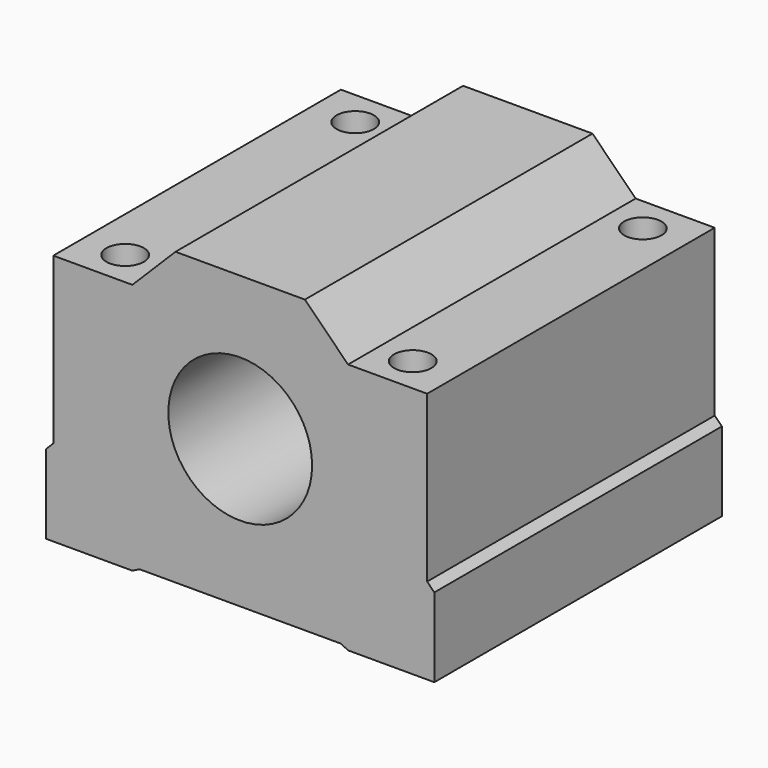
from build123d import *

# Parameters (mm, degrees)
F0_R      = 10
F1_DEPTH  = 50
F5_D      = 6.48
F5_DEPTH  = 12
F5_TIP    = 1.9467884056
F6_D      = 6.48
F6_DEPTH  = 12
F6_TIP    = 1.9467884056
F7_D      = 6.48
F7_DEPTH  = 12
F7_TIP    = 1.9467884056
F8_D      = 6.48
F8_DEPTH  = 12
F8_TIP    = 1.9467884056
F9_D      = 5.2
F9_DEPTH  = 23
F9_TIP    = 1.5622376095
F10_D     = 5.2
F10_DEPTH = 23
F10_TIP   = 1.5622376095
F11_D     = 5.2
F11_DEPTH = 23
F11_TIP   = 1.5622376095
F12_D     = 5.2
F12_DEPTH = 23
F12_TIP   = 1.5622376095


with BuildPart() as f1:
    # F0 (on Front) → F1 (new body)
    with BuildSketch(Plane.XZ):
        Polygon((15, -20.5), (27, -20.5), (27, -9.5), (26, -8.5), (26, 14.5), (15, 14.5), (9, 20.5), (-9, 20.5), (-15, 14.5), (-26, 14.5), (-26, -8.5), (-27, -9.5), (-27, -20.5), (-15, -20.5), (-14, -20), (14, -20), align=None)
        with Locations((0, 0.5)):
            Circle(F0_R, mode=Mode.SUBTRACT)
    extrude(amount=F1_DEPTH)

    # F5
    with Locations(Plane(origin=(0, 0, -20.5), x_dir=(1, 0, 0), z_dir=(0, 0, -1))):
        with Locations((20, 45)):
            Hole(F5_D / 2, depth=F5_DEPTH)
            with Locations((0, 0, -(F5_DEPTH + F5_TIP / 2))):  # 118° drill point
                Cone(0, F5_D / 2, F5_TIP, mode=Mode.SUBTRACT)

    # F6
    with Locations(Plane(origin=(0, 0, -20.5), x_dir=(1, 0, 0), z_dir=(0, 0, -1))):
        with Locations((-20, 45)):
            Hole(F6_D / 2, depth=F6_DEPTH)
            with Locations((0, 0, -(F6_DEPTH + F6_TIP / 2))):  # 118° drill point
                Cone(0, F6_D / 2, F6_TIP, mode=Mode.SUBTRACT)

    # F7
    with Locations(Plane(origin=(0, 0, -20.5), x_dir=(1, 0, 0), z_dir=(0, 0, -1))):
        with Locations((20, 5)):
            Hole(F7_D / 2, depth=F7_DEPTH)
            with Locations((0, 0, -(F7_DEPTH + F7_TIP / 2))):  # 118° drill point
                Cone(0, F7_D / 2, F7_TIP, mode=Mode.SUBTRACT)

    # F8
    with Locations(Plane(origin=(0, 0, -20.5), x_dir=(1, 0, 0), z_dir=(0, 0, -1))):
        with Locations((-20, 5)):
            Hole(F8_D / 2, depth=F8_DEPTH)
            with Locations((0, 0, -(F8_DEPTH + F8_TIP / 2))):  # 118° drill point
                Cone(0, F8_D / 2, F8_TIP, mode=Mode.SUBTRACT)

    # F9
    with Locations(Plane.XY.offset(14.5)):
        with Locations((20, -45)):
            Hole(F9_D / 2, depth=F9_DEPTH)
            with Locations((0, 0, -(F9_DEPTH + F9_TIP / 2))):  # 118° drill point
                Cone(0, F9_D / 2, F9_TIP, mode=Mode.SUBTRACT)

    # F10
    with Locations(Plane.XY.offset(14.5)):
        with Locations((-20, -45)):
            Hole(F10_D / 2, depth=F10_DEPTH)
            with Locations((0, 0, -(F10_DEPTH + F10_TIP / 2))):  # 118° drill point
                Cone(0, F10_D / 2, F10_TIP, mode=Mode.SUBTRACT)

    # F11
    with Locations(Plane.XY.offset(14.5)):
        with Locations((-20, -5)):
            Hole(F11_D / 2, depth=F11_DEPTH)
            with Locations((0, 0, -(F11_DEPTH + F11_TIP / 2))):  # 118° drill point
                Cone(0, F11_D / 2, F11_TIP, mode=Mode.SUBTRACT)

    # F12
    with Locations(Plane.XY.offset(14.5)):
        with Locations((20, -5)):
            Hole(F12_D / 2, depth=F12_DEPTH)
            with Locations((0, 0, -(F12_DEPTH + F12_TIP / 2))):  # 118° drill point
                Cone(0, F12_D / 2, F12_TIP, mode=Mode.SUBTRACT)


solid = f1.part
